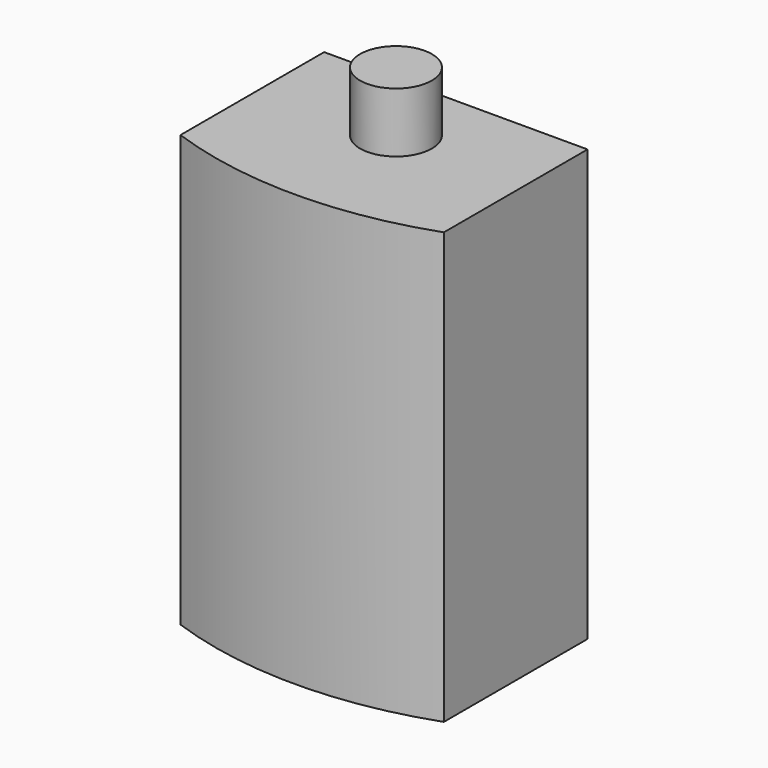
from build123d import *

# Parameters (mm, degrees)
F1_DEPTH = 720
F2_R     = 60
F3_DEPTH = 100


with BuildPart() as f1:
    # F0 (on Top) → F1 (new body)
    with BuildSketch(Plane.XY):
        with BuildLine():
            Line((-220, 0), (-220, -300))
            ThreePointArc((-220, -300), (0, -338), (220, -300))
            Line((220, -300), (220, 0))
            Line((220, 0), (-220, 0))
        make_face()
    extrude(amount=F1_DEPTH)

    # F2 (on face) → F3 (join)
    with BuildSketch(Plane.XY.offset(720)):
        with Locations((0, -125)):
            Circle(F2_R)
    extrude(amount=F3_DEPTH)


solid = f1.part
